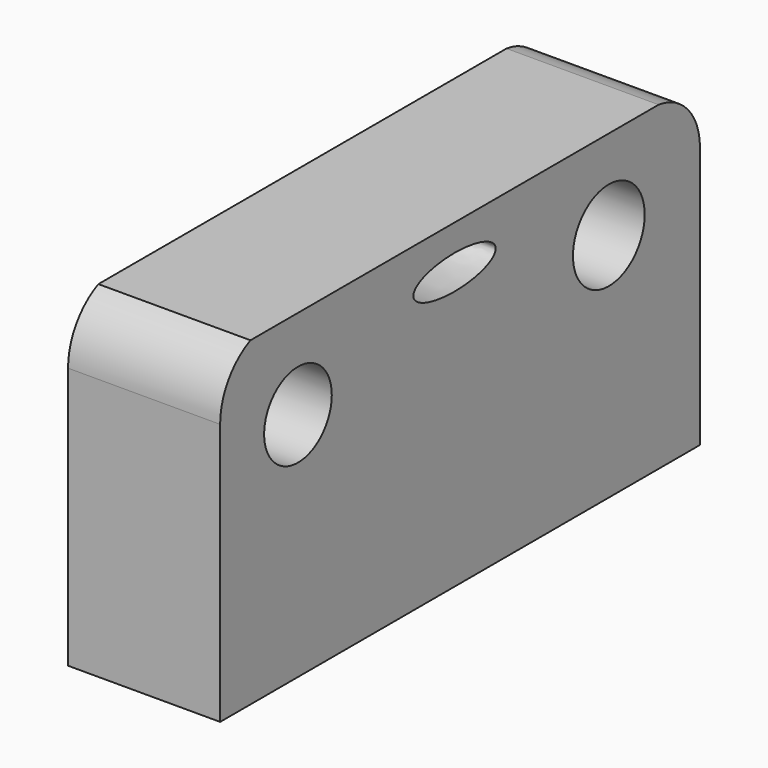
from build123d import *

# Parameters (mm, degrees)
F0_R     = 3.5293322971
F0_W     = 21.297625266
F0_H     = 19.2829854786
F0_R_2   = 3.7429167632
F1_DEPTH = 6.35


with BuildPart() as f1:
    # F0 (on Right) → F1 (new body, symmetric)
    with BuildSketch(Plane.YZ):
        with BuildLine():
            Line((-24.4634896517, 21.8732375652), (-24.4634896517, 0))
            Line((-24.4634896517, 0), (-19.6764227003, 0))
            Line((-19.6764227003, 0), (-15.6471431255, 0))
            Line((-15.6471431255, 0), (-10.6488130987, 0))
            Line((-10.6488130987, 0), (-10.6488130987, 19.2829854786))
            Line((-10.6488130987, 19.2829854786), (-10.6488130987, 26.7659369856))
            Line((-10.6488130987, 26.7659369856), (-21.2976261973, 26.7659369856))
            ThreePointArc((-21.2976261973, 26.7659369856), (-23.6029996823, 24.7870494598), (-24.4634896517, 21.8732375652))
        make_face()
        with Locations((-16.3409616798, 19.2829854786)):
            Circle(F0_R, mode=Mode.SUBTRACT)
        Polygon((0, 26.7659369856), (-10.6488130987, 26.7659369856), (-10.6488130987, 19.2829854786), (10.6488121673, 19.2829854786), (10.6488121673, 26.7659369856), align=None)
        with BuildLine():
            add(Edge.make_bspline(
                [(4.2949644849, 23.1104902923), (4.2949644849, 25.5790311776), (-2.1474822424, 24.344760735), (-8.5899289697, 23.1104902923), (-2.1474822424, 21.8762198497), (4.2949644849, 20.641949407), (4.2949644849, 23.1104902923)],
                knots=[0, 0, 0, 2.0943951024, 2.0943951024, 4.1887902048, 4.1887902048, 6.2831853072, 6.2831853072, 6.2831853072], degree=2, weights=[1, 0.5, 1, 0.5, 1, 0.5, 1]))
        make_face(mode=Mode.SUBTRACT)
        with Locations((-4.657e-07, 9.6414927393)):
            Rectangle(F0_W, F0_H)
        with BuildLine():
            Line((10.6488121673, 19.2829854786), (10.6488121673, 0))
            Line((10.6488121673, 0), (25.6147161126, 0))
            Line((25.6147161126, 0), (25.6147161126, 21.8732375652))
            ThreePointArc((25.6147161126, 21.8732375652), (24.3811468064, 25.1357438501), (21.2976243347, 26.7659369856))
            Line((21.2976243347, 26.7659369856), (10.6488121673, 26.7659369856))
            Line((10.6488121673, 26.7659369856), (10.6488121673, 19.2829854786))
        make_face()
        with Locations((16.1029566079, 19.2829854786)):
            Circle(F0_R_2, mode=Mode.SUBTRACT)
    extrude(amount=F1_DEPTH, both=True)


solid = f1.part
